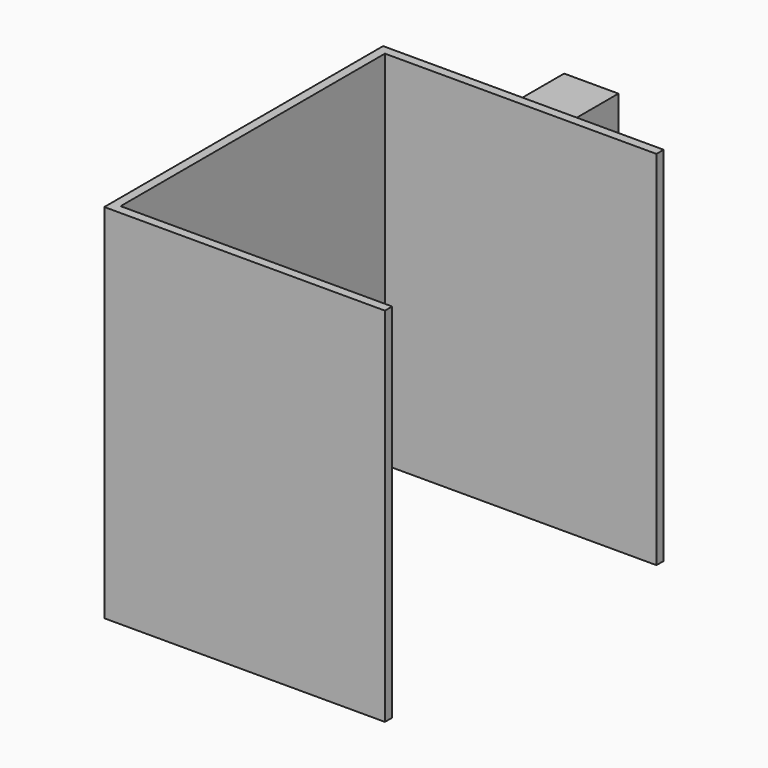
from build123d import *

# Parameters (mm, degrees)
F1_DEPTH  = 400
F2_W      = 60
F2_H      = 60
F3_DEPTH  = 25
F3_FACE_W = 60
F3_FACE_H = 60
F4_DEPTH  = 100


with BuildPart() as f1:
    # F0 (on Top) → F1 (new body)
    with BuildSketch(Plane.XY):
        Polygon((0, 385), (0, 0), (310, 0), (310, 10), (10, 10), (10, 375), (310, 375), (310, 385), align=None)
    extrude(amount=F1_DEPTH)

    # F2 (on face) → F3 (join)
    with BuildSketch(Plane(origin=(0, 385, 0), x_dir=(-1, 0, 0), z_dir=(0, 1, 0))):
        with Locations((-130, 325)):
            Rectangle(F2_W, F2_H)
    extrude(amount=F3_DEPTH)

    # F3_face (on face) → F4 (join)
    with BuildSketch(Plane(origin=(130, 410, 325), x_dir=(-1, 0, 0), z_dir=(0, 1, 0))):
        Rectangle(F3_FACE_W, F3_FACE_H)
    extrude(amount=F4_DEPTH)


solid = f1.part
